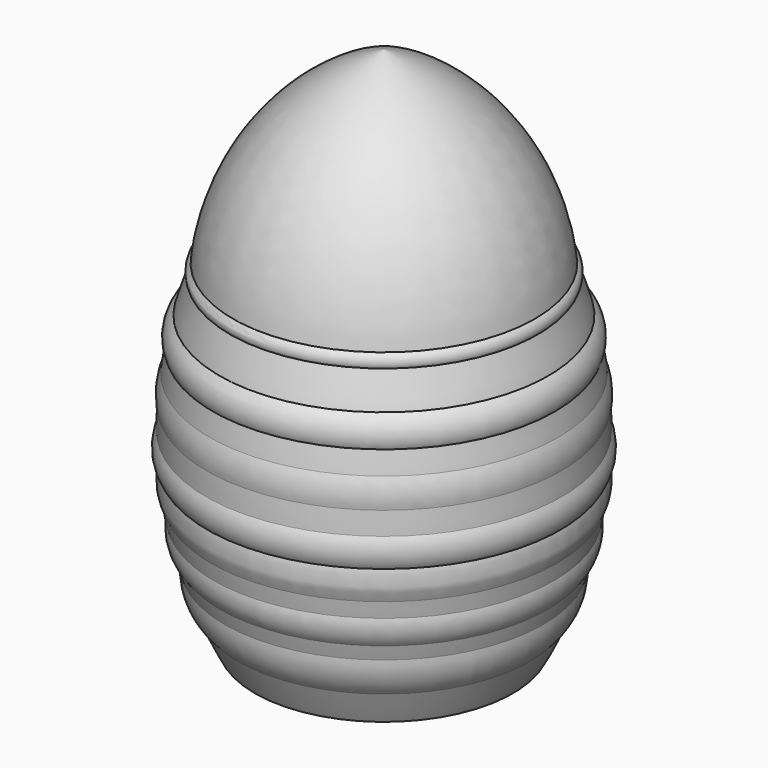
from build123d import *


with BuildPart() as f1:
    # F0 (on Front) → F1 (revolve)
    with BuildSketch(Plane.XZ):
        with BuildLine():
            Line((-15, 0), (0, 0))
            Line((0, 0), (0, 60.96))
            ThreePointArc((0, 60.96), (-11.951752, 52.58724), (-17.54327, 39.108277))
            ThreePointArc((-17.54327, 39.108277), (-17.990383, 38.434869), (-17.888004, 37.633055))
            ThreePointArc((-17.888004, 37.633055), (-18.535874, 35.723365), (-19.098858, 33.78695))
            ThreePointArc((-19.098858, 33.78695), (-20.053906, 32.219466), (-19.867655, 30.393423))
            ThreePointArc((-19.867655, 30.393423), (-20.084564, 29.135368), (-20.266245, 27.871745))
            ThreePointArc((-20.266245, 27.871745), (-20.675333, 26.225508), (-20.574777, 24.532187))
            ThreePointArc((-20.574777, 24.532187), (-20.628667, 23.22027), (-20.644842, 21.907347))
            ThreePointArc((-20.644842, 21.907347), (-21.038581, 20.187763), (-20.510971, 18.504424))
            ThreePointArc((-20.510971, 18.504424), (-20.629437, 16.682038), (-20.095435, 14.935623))
            ThreePointArc((-20.095435, 14.935623), (-19.938135, 13.994872), (-19.761235, 13.057608))
            ThreePointArc((-19.761235, 13.057608), (-19.73589, 11.363689), (-18.996862, 9.839273))
            ThreePointArc((-18.996862, 9.839273), (-18.752762, 8.987449), (-18.492191, 8.140519))
            ThreePointArc((-18.492191, 8.140519), (-18.129242, 5.807479), (-16.868587, 3.811094))
            ThreePointArc((-16.868587, 3.811094), (-15.978567, 1.88384), (-15, 0))
        make_face()
    revolve(axis=Axis((0, 0, 30.48), (0, 0, 1)))


solid = f1.part
